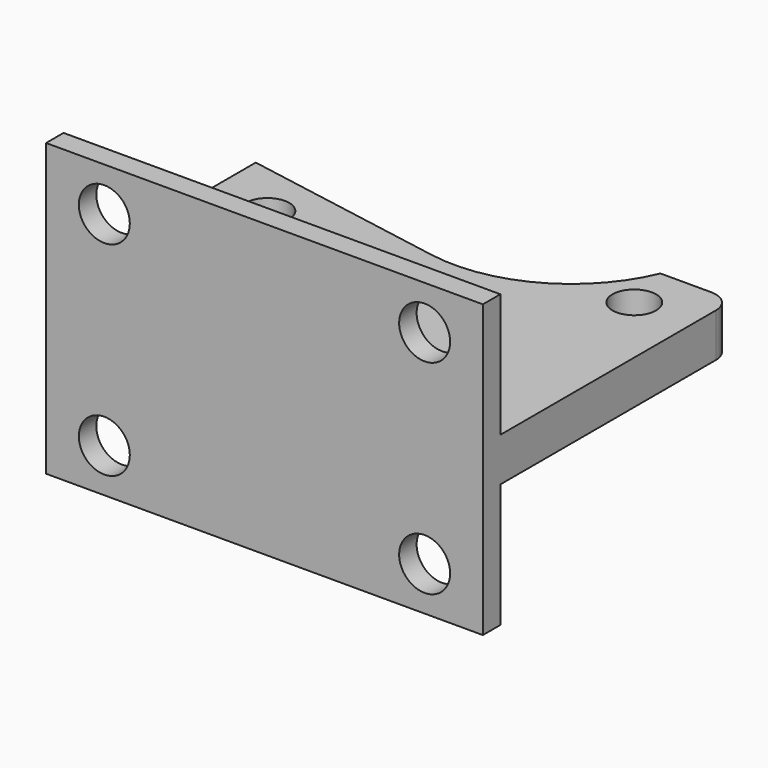
from build123d import *

# Parameters (mm, degrees)
F0_R     = 3
F1_DEPTH = 3
F2_W     = 60
F2_H     = 40
F2_R     = 3.5
F3_DEPTH = 3


with BuildPart() as f1:
    # F0 (on Top) → F1 (new body, symmetric)
    with BuildSketch(Plane.XY):
        with BuildLine():
            ThreePointArc((18.440057, -7.743663), (9.577003, -17.557933), (-3.472964, -19.696155))
            Line((-3.472964, -19.696155), (-31.559943, -14.743663))
            Line((-31.559943, -14.743663), (-31.559943, -47.743663))
            Line((-31.559943, -47.743663), (28.440057, -47.743663))
            Line((28.440057, -47.743663), (28.440057, -10.743663))
            ThreePointArc((28.440057, -10.743663), (27.561377, -8.622342), (25.440057, -7.743663))
            Line((25.440057, -7.743663), (18.440057, -7.743663))
        make_face()
        with Locations((-23.559943, -22.743663)):
            Circle(F0_R, mode=Mode.SUBTRACT)
        with Locations((20.440057, -14.743663)):
            Circle(F0_R, mode=Mode.SUBTRACT)
    extrude(amount=F1_DEPTH, both=True)

    # F2 (on face) → F3 (join)
    with BuildSketch(Plane.XZ.offset(47.743663)):
        with Locations((-1.559943, 0)):
            Rectangle(F2_W, F2_H)
        with Locations((-23.559943, -14)):
            Circle(F2_R, mode=Mode.SUBTRACT)
        with Locations((20.440057, -14)):
            Circle(F2_R, mode=Mode.SUBTRACT)
        with Locations((-23.559943, 14)):
            Circle(F2_R, mode=Mode.SUBTRACT)
        with Locations((20.440057, 14)):
            Circle(F2_R, mode=Mode.SUBTRACT)
    extrude(amount=F3_DEPTH)


solid = f1.part
